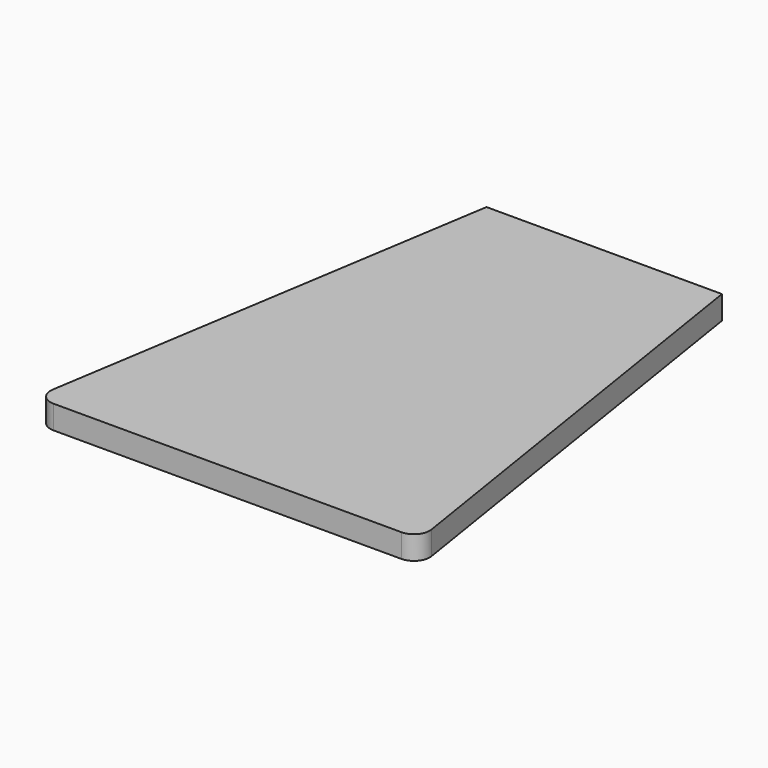
from build123d import *

# Parameters (mm, degrees)
F1_DEPTH = 3


with BuildPart() as f1:
    # F0 (on Top) → F1 (new body)
    with BuildSketch(Plane.XY):
        with BuildLine():
            Line((15, 0), (0, 0))
            Line((0, 0), (-15, 0))
            Line((-15, 0), (-24.136744, -57.687131))
            ThreePointArc((-24.136744, -57.687131), (-23.682179, -59.298896), (-22.161367, -60))
            Line((-22.161367, -60), (0, -60))
            Line((0, -60), (22.161367, -60))
            ThreePointArc((22.161367, -60), (23.682179, -59.298896), (24.136744, -57.687131))
            Line((24.136744, -57.687131), (15, 0))
        make_face()
    extrude(amount=F1_DEPTH)


solid = f1.part
